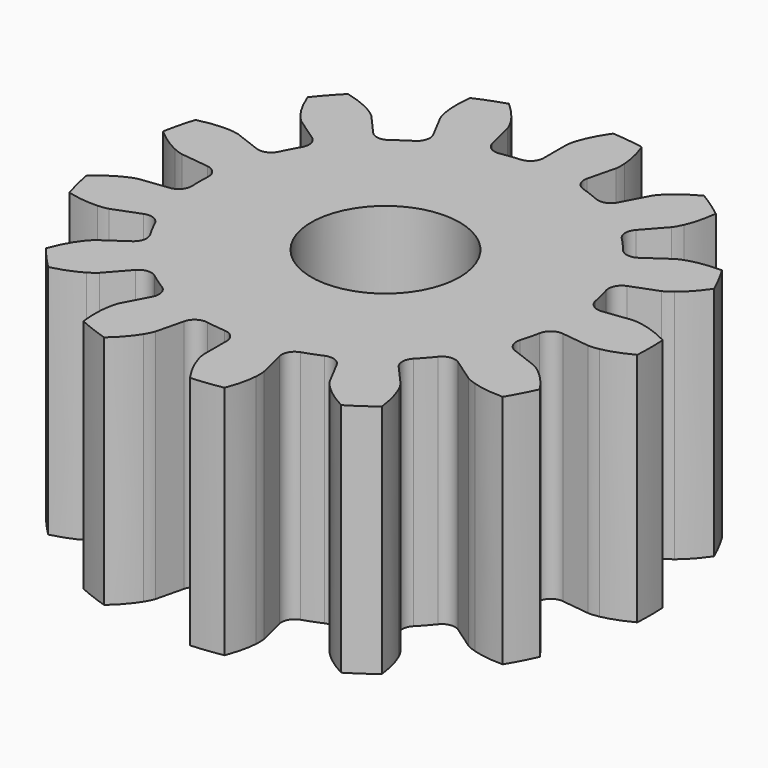
from build123d import *

# Parameters (mm, degrees)
SKETCH019_R  = 3.15
PAD011_DEPTH = 100
PAD_DEPTH    = 10


with BuildPart() as pad011:
    # Sketch019 → Pad011 (new body, symmetric)
    with BuildSketch(Plane(origin=(0, 0, 0), x_dir=(1, 0, 0), z_dir=(0, 0, -1))):
        Circle(SKETCH019_R)
    extrude(amount=PAD011_DEPTH, both=True)


with BuildPart() as obj1:
    # InvoluteGear → Pad (new body)
    with BuildSketch(Plane.XY):
        with BuildLine():
            Line((8.355513, -1.029758), (9.548181, -1.175965))
            add(Edge.make_bspline(
                [(9.548181, -1.175965), (9.5967, -1.178924), (9.742908, -1.18188), (9.988316, -1.135943)],
                knots=[0, 0, 0, 0, 1, 1, 1, 1], degree=3))
            add(Edge.make_bspline(
                [(9.988316, -1.135943), (10.281884, -1.080014), (10.705563, -0.954393), (11.230767, -0.676657)],
                knots=[0, 0, 0, 0, 1, 1, 1, 1], degree=3))
            ThreePointArc((11.230767, -0.676657), (11.251135, 0), (11.230767, 0.676657))
            add(Edge.make_bspline(
                [(11.230767, 0.676657), (10.705563, 0.954393), (10.281884, 1.080014), (9.988316, 1.135943)],
                knots=[0, 0, 0, 0, 1, 1, 1, 1], degree=3))
            add(Edge.make_bspline(
                [(9.988316, 1.135943), (9.742908, 1.18188), (9.5967, 1.178924), (9.548181, 1.175965)],
                knots=[0, 0, 0, 0, 1, 1, 1, 1], degree=3))
            Line((9.548181, 1.175965), (8.355513, 1.029758))
            ThreePointArc((8.355513, 1.029758), (7.956052, 1.132981), (7.734481, 1.48102))
            ThreePointArc((7.734481, 1.48102), (7.646167, 1.884611), (7.536808, 2.283014))
            ThreePointArc((7.536808, 2.283014), (7.571257, 2.694156), (7.876992, 2.971196))
            Line((7.876992, 2.971196), (9.000992, 3.395996))
            add(Edge.make_bspline(
                [(9.000992, 3.395996), (9.04533, 3.415923), (9.176163, 3.481252), (9.372113, 3.635975)],
                knots=[0, 0, 0, 0, 1, 1, 1, 1], degree=3))
            add(Edge.make_bspline(
                [(9.372113, 3.635975), (9.606064, 3.821924), (9.922834, 4.130051), (10.258808, 4.620047)],
                knots=[0, 0, 0, 0, 1, 1, 1, 1], degree=3))
            ThreePointArc((10.258808, 4.620047), (9.962385, 5.228663), (9.629892, 5.818348))
            add(Edge.make_bspline(
                [(9.629892, 5.818348), (9.035777, 5.820196), (8.602248, 5.734535), (8.316315, 5.647629)],
                knots=[0, 0, 0, 0, 1, 1, 1, 1], degree=3))
            add(Edge.make_bspline(
                [(8.316315, 5.647629), (8.077669, 5.574257), (7.949583, 5.503695), (7.907996, 5.478526)],
                knots=[0, 0, 0, 0, 1, 1, 1, 1], degree=3))
            Line((7.907996, 5.478526), (6.919887, 4.794806))
            ThreePointArc((6.919887, 4.794806), (6.518211, 4.700567), (6.160279, 4.905771))
            ThreePointArc((6.160279, 4.905771), (5.894522, 5.222091), (5.612542, 5.524038))
            ThreePointArc((5.612542, 5.524038), (5.451978, 5.904095), (5.593946, 6.291484))
            Line((5.593946, 6.291484), (6.391785, 7.189975))
            add(Edge.make_bspline(
                [(6.391785, 7.189975), (6.421783, 7.228224), (6.50727, 7.346872), (6.608872, 7.574934)],
                knots=[0, 0, 0, 0, 1, 1, 1, 1], degree=3))
            add(Edge.make_bspline(
                [(6.608872, 7.574934), (6.72961, 7.848306), (6.866903, 8.268349), (6.936681, 8.858355)],
                knots=[0, 0, 0, 0, 1, 1, 1, 1], degree=3))
            ThreePointArc((6.936681, 8.858355), (6.391373, 9.259502), (5.822925, 9.627125))
            add(Edge.make_bspline(
                [(5.822925, 9.627125), (5.296003, 9.352662), (4.951941, 9.075343), (4.739148, 8.865511)],
                knots=[0, 0, 0, 0, 1, 1, 1, 1], degree=3))
            add(Edge.make_bspline(
                [(4.739148, 8.865511), (4.561934, 8.68964), (4.481311, 8.567635), (4.456185, 8.526023)],
                knots=[0, 0, 0, 0, 1, 1, 1, 1], degree=3))
            Line((4.456185, 8.526023), (3.898999, 7.461421))
            ThreePointArc((3.898999, 7.461421), (3.587127, 7.191309), (3.17483, 7.206669))
            ThreePointArc((3.17483, 7.206669), (2.792513, 7.363253), (2.402511, 7.499571))
            ThreePointArc((2.402511, 7.499571), (2.083717, 7.761477), (2.029395, 8.170468))
            Line((2.029395, 8.170468), (2.318297, 9.336817))
            add(Edge.make_bspline(
                [(2.318297, 9.336817), (2.327083, 9.384626), (2.34764, 9.529411), (2.331619, 9.778567)],
                knots=[0, 0, 0, 0, 1, 1, 1, 1], degree=3))
            add(Edge.make_bspline(
                [(2.331619, 9.778567), (2.311484, 10.076736), (2.237847, 10.512468), (2.025443, 11.06732)],
                knots=[0, 0, 0, 0, 1, 1, 1, 1], degree=3))
            ThreePointArc((2.025443, 11.06732), (1.356174, 11.169101), (0.681996, 11.230444))
            add(Edge.make_bspline(
                [(0.681996, 11.230444), (0.342979, 10.742547), (0.167204, 10.337099), (0.076298, 10.052412)],
                knots=[0, 0, 0, 0, 1, 1, 1, 1], degree=3))
            add(Edge.make_bspline(
                [(0.076298, 10.052412), (0.001115, 9.814331), (-0.013574, 9.668833), (-0.016485, 9.620311)],
                knots=[0, 0, 0, 0, 1, 1, 1, 1], degree=3))
            Line((-0.016485, 9.620311), (-0.015104, 8.418716))
            ThreePointArc((-0.015104, 8.418716), (-0.165725, 8.034609), (-0.537933, 7.856606))
            ThreePointArc((-0.537933, 7.856606), (-0.949226, 7.817582), (-1.357907, 7.757043))
            ThreePointArc((-1.357907, 7.757043), (-1.761899, 7.840798), (-2.000066, 8.177698))
            Line((-2.000066, 8.177698), (-2.286285, 9.344707))
            add(Edge.make_bspline(
                [(-2.286285, 9.344707), (-2.300723, 9.391123), (-2.349806, 9.528877), (-2.479781, 9.742048)],
                knots=[0, 0, 0, 0, 1, 1, 1, 1], degree=3))
            add(Edge.make_bspline(
                [(-2.479781, 9.742048), (-2.636175, 9.996707), (-2.903872, 10.348308), (-3.349799, 10.740895)],
                knots=[0, 0, 0, 0, 1, 1, 1, 1], degree=3))
            ThreePointArc((-3.349799, 10.740895), (-3.989707, 10.519994), (-4.61517, 10.261003))
            add(Edge.make_bspline(
                [(-4.61517, 10.261003), (-4.688617, 9.671443), (-4.655837, 9.23075), (-4.60403, 8.936427)],
                knots=[0, 0, 0, 0, 1, 1, 1, 1], degree=3))
            add(Edge.make_bspline(
                [(-4.60403, 8.936427), (-4.559959, 8.690677), (-4.50535, 8.555018), (-4.485378, 8.510701)],
                knots=[0, 0, 0, 0, 1, 1, 1, 1], degree=3))
            Line((-4.485378, 8.510701), (-3.925746, 7.447383))
            ThreePointArc((-3.925746, 7.447383), (-3.880611, 7.037277), (-4.127463, 6.706689))
            ThreePointArc((-4.127463, 6.706689), (-4.47351, 6.480998), (-4.807244, 6.23747))
            ThreePointArc((-4.807244, 6.23747), (-5.203885, 6.123887), (-5.571336, 6.311515))
            Line((-5.571336, 6.311515), (-6.367107, 7.211837))
            add(Edge.make_bspline(
                [(-6.367107, 7.211837), (-6.401462, 7.246227), (-6.50894, 7.345392), (-6.723092, 7.473744)],
                knots=[0, 0, 0, 0, 1, 1, 1, 1], degree=3))
            add(Edge.make_bspline(
                [(-6.723092, 7.473744), (-6.979918, 7.626553), (-7.38035, 7.813474), (-7.957643, 7.953861)],
                knots=[0, 0, 0, 0, 1, 1, 1, 1], degree=3))
            ThreePointArc((-7.957643, 7.953861), (-8.421595, 7.460882), (-8.855056, 6.940891))
            add(Edge.make_bspline(
                [(-8.855056, 6.940891), (-8.646108, 6.384728), (-8.412283, 6.009748), (-8.229631, 5.773213)],
                knots=[0, 0, 0, 0, 1, 1, 1, 1], degree=3))
            add(Edge.make_bspline(
                [(-8.229631, 5.773213), (-8.076402, 5.576093), (-7.965005, 5.481352), (-7.926725, 5.451393)],
                knots=[0, 0, 0, 0, 1, 1, 1, 1], degree=3))
            Line((-7.926725, 5.451393), (-6.937047, 4.769945))
            ThreePointArc((-6.937047, 4.769945), (-6.706496, 4.427789), (-6.771441, 4.02035))
            ThreePointArc((-6.771441, 4.02035), (-6.972966, 3.659695), (-7.1553, 3.288967))
            ThreePointArc((-7.1553, 3.288967), (-7.453723, 3.004067), (-7.86628, 2.99944))
            Line((-7.86628, 2.99944), (-8.989301, 3.426823))
            add(Edge.make_bspline(
                [(-8.989301, 3.426823), (-9.035703, 3.441308), (-9.176954, 3.479167), (-9.426224, 3.493294)],
                knots=[0, 0, 0, 0, 1, 1, 1, 1], degree=3))
            add(Edge.make_bspline(
                [(-9.426224, 3.493294), (-9.724647, 3.509247), (-10.166078, 3.488669), (-10.742486, 3.344693)],
                knots=[0, 0, 0, 0, 1, 1, 1, 1], degree=3))
            ThreePointArc((-10.742486, 3.344693), (-10.924197, 2.692573), (-11.066356, 2.030704))
            add(Edge.make_bspline(
                [(-11.066356, 2.030704), (-10.62288, 1.635349), (-10.241575, 1.411985), (-9.969922, 1.287426)],
                knots=[0, 0, 0, 0, 1, 1, 1, 1], degree=3))
            add(Edge.make_bspline(
                [(-9.969922, 1.287426), (-9.742639, 1.184094), (-9.599973, 1.151974), (-9.552155, 1.143236)],
                knots=[0, 0, 0, 0, 1, 1, 1, 1], degree=3))
            Line((-9.552155, 1.143236), (-8.359154, 0.99977))
            ThreePointArc((-8.359154, 0.99977), (-7.996004, 0.803949), (-7.864163, 0.412998))
            ThreePointArc((-7.864163, 0.412998), (-7.875, 0), (-7.864163, -0.412998))
            ThreePointArc((-7.864163, -0.412998), (-7.996004, -0.803949), (-8.359154, -0.99977))
            Line((-8.359154, -0.99977), (-9.552155, -1.143236))
            add(Edge.make_bspline(
                [(-9.552155, -1.143236), (-9.599973, -1.151974), (-9.742639, -1.184094), (-9.969922, -1.287426)],
                knots=[0, 0, 0, 0, 1, 1, 1, 1], degree=3))
            add(Edge.make_bspline(
                [(-9.969922, -1.287426), (-10.241575, -1.411985), (-10.62288, -1.635349), (-11.066356, -2.030704)],
                knots=[0, 0, 0, 0, 1, 1, 1, 1], degree=3))
            ThreePointArc((-11.066356, -2.030704), (-10.924197, -2.692573), (-10.742486, -3.344693))
            add(Edge.make_bspline(
                [(-10.742486, -3.344693), (-10.166078, -3.488669), (-9.724647, -3.509247), (-9.426224, -3.493294)],
                knots=[0, 0, 0, 0, 1, 1, 1, 1], degree=3))
            add(Edge.make_bspline(
                [(-9.426224, -3.493294), (-9.176954, -3.479167), (-9.035703, -3.441308), (-8.989301, -3.426823)],
                knots=[0, 0, 0, 0, 1, 1, 1, 1], degree=3))
            Line((-8.989301, -3.426823), (-7.86628, -2.99944))
            ThreePointArc((-7.86628, -2.99944), (-7.453723, -3.004067), (-7.1553, -3.288967))
            ThreePointArc((-7.1553, -3.288967), (-6.972966, -3.659695), (-6.771441, -4.02035))
            ThreePointArc((-6.771441, -4.02035), (-6.706496, -4.427789), (-6.937047, -4.769945))
            Line((-6.937047, -4.769945), (-7.926725, -5.451393))
            add(Edge.make_bspline(
                [(-7.926725, -5.451393), (-7.965005, -5.481352), (-8.076402, -5.576093), (-8.229631, -5.773213)],
                knots=[0, 0, 0, 0, 1, 1, 1, 1], degree=3))
            add(Edge.make_bspline(
                [(-8.229631, -5.773213), (-8.412283, -6.009748), (-8.646108, -6.384728), (-8.855056, -6.940891)],
                knots=[0, 0, 0, 0, 1, 1, 1, 1], degree=3))
            ThreePointArc((-8.855056, -6.940891), (-8.421595, -7.460882), (-7.957643, -7.953861))
            add(Edge.make_bspline(
                [(-7.957643, -7.953861), (-7.38035, -7.813474), (-6.979918, -7.626553), (-6.723092, -7.473744)],
                knots=[0, 0, 0, 0, 1, 1, 1, 1], degree=3))
            add(Edge.make_bspline(
                [(-6.723092, -7.473744), (-6.50894, -7.345392), (-6.401462, -7.246227), (-6.367107, -7.211837)],
                knots=[0, 0, 0, 0, 1, 1, 1, 1], degree=3))
            Line((-6.367107, -7.211837), (-5.571336, -6.311515))
            ThreePointArc((-5.571336, -6.311515), (-5.203885, -6.123887), (-4.807244, -6.23747))
            ThreePointArc((-4.807244, -6.23747), (-4.47351, -6.480998), (-4.127463, -6.706689))
            ThreePointArc((-4.127463, -6.706689), (-3.880611, -7.037277), (-3.925746, -7.447383))
            Line((-3.925746, -7.447383), (-4.485378, -8.510701))
            add(Edge.make_bspline(
                [(-4.485378, -8.510701), (-4.50535, -8.555018), (-4.559959, -8.690677), (-4.60403, -8.936427)],
                knots=[0, 0, 0, 0, 1, 1, 1, 1], degree=3))
            add(Edge.make_bspline(
                [(-4.60403, -8.936427), (-4.655837, -9.23075), (-4.688617, -9.671443), (-4.61517, -10.261003)],
                knots=[0, 0, 0, 0, 1, 1, 1, 1], degree=3))
            ThreePointArc((-4.61517, -10.261003), (-3.989707, -10.519994), (-3.349799, -10.740895))
            add(Edge.make_bspline(
                [(-3.349799, -10.740895), (-2.903872, -10.348308), (-2.636175, -9.996707), (-2.479781, -9.742048)],
                knots=[0, 0, 0, 0, 1, 1, 1, 1], degree=3))
            add(Edge.make_bspline(
                [(-2.479781, -9.742048), (-2.349806, -9.528877), (-2.300723, -9.391123), (-2.286285, -9.344707)],
                knots=[0, 0, 0, 0, 1, 1, 1, 1], degree=3))
            Line((-2.286285, -9.344707), (-2.000066, -8.177698))
            ThreePointArc((-2.000066, -8.177698), (-1.761899, -7.840798), (-1.357907, -7.757043))
            ThreePointArc((-1.357907, -7.757043), (-0.949226, -7.817582), (-0.537933, -7.856606))
            ThreePointArc((-0.537933, -7.856606), (-0.165725, -8.034609), (-0.015104, -8.418716))
            Line((-0.015104, -8.418716), (-0.016485, -9.620311))
            add(Edge.make_bspline(
                [(-0.016485, -9.620311), (-0.013574, -9.668833), (0.001115, -9.814331), (0.076298, -10.052412)],
                knots=[0, 0, 0, 0, 1, 1, 1, 1], degree=3))
            add(Edge.make_bspline(
                [(0.076298, -10.052412), (0.167204, -10.337099), (0.342979, -10.742547), (0.681996, -11.230444)],
                knots=[0, 0, 0, 0, 1, 1, 1, 1], degree=3))
            ThreePointArc((0.681996, -11.230444), (1.356174, -11.169101), (2.025443, -11.06732))
            add(Edge.make_bspline(
                [(2.025443, -11.06732), (2.237847, -10.512468), (2.311484, -10.076736), (2.331619, -9.778567)],
                knots=[0, 0, 0, 0, 1, 1, 1, 1], degree=3))
            add(Edge.make_bspline(
                [(2.331619, -9.778567), (2.34764, -9.529411), (2.327083, -9.384626), (2.318297, -9.336817)],
                knots=[0, 0, 0, 0, 1, 1, 1, 1], degree=3))
            Line((2.318297, -9.336817), (2.029395, -8.170468))
            ThreePointArc((2.029395, -8.170468), (2.083717, -7.761477), (2.402511, -7.499571))
            ThreePointArc((2.402511, -7.499571), (2.792513, -7.363253), (3.17483, -7.206669))
            ThreePointArc((3.17483, -7.206669), (3.587127, -7.191309), (3.898999, -7.461421))
            Line((3.898999, -7.461421), (4.456185, -8.526023))
            add(Edge.make_bspline(
                [(4.456185, -8.526023), (4.481311, -8.567635), (4.561934, -8.68964), (4.739148, -8.865511)],
                knots=[0, 0, 0, 0, 1, 1, 1, 1], degree=3))
            add(Edge.make_bspline(
                [(4.739148, -8.865511), (4.951941, -9.075343), (5.296003, -9.352662), (5.822925, -9.627125)],
                knots=[0, 0, 0, 0, 1, 1, 1, 1], degree=3))
            ThreePointArc((5.822925, -9.627125), (6.391373, -9.259502), (6.936681, -8.858355))
            add(Edge.make_bspline(
                [(6.936681, -8.858355), (6.866903, -8.268349), (6.72961, -7.848306), (6.608872, -7.574934)],
                knots=[0, 0, 0, 0, 1, 1, 1, 1], degree=3))
            add(Edge.make_bspline(
                [(6.608872, -7.574934), (6.50727, -7.346872), (6.421783, -7.228224), (6.391785, -7.189975)],
                knots=[0, 0, 0, 0, 1, 1, 1, 1], degree=3))
            Line((6.391785, -7.189975), (5.593946, -6.291484))
            ThreePointArc((5.593946, -6.291484), (5.451978, -5.904095), (5.612542, -5.524038))
            ThreePointArc((5.612542, -5.524038), (5.894522, -5.222091), (6.160279, -4.905771))
            ThreePointArc((6.160279, -4.905771), (6.518211, -4.700567), (6.919887, -4.794806))
            Line((6.919887, -4.794806), (7.907996, -5.478526))
            add(Edge.make_bspline(
                [(7.907996, -5.478526), (7.949583, -5.503695), (8.077669, -5.574257), (8.316315, -5.647629)],
                knots=[0, 0, 0, 0, 1, 1, 1, 1], degree=3))
            add(Edge.make_bspline(
                [(8.316315, -5.647629), (8.602248, -5.734535), (9.035777, -5.820196), (9.629892, -5.818348)],
                knots=[0, 0, 0, 0, 1, 1, 1, 1], degree=3))
            ThreePointArc((9.629892, -5.818348), (9.962385, -5.228663), (10.258808, -4.620047))
            add(Edge.make_bspline(
                [(10.258808, -4.620047), (9.922834, -4.130051), (9.606064, -3.821924), (9.372113, -3.635975)],
                knots=[0, 0, 0, 0, 1, 1, 1, 1], degree=3))
            add(Edge.make_bspline(
                [(9.372113, -3.635975), (9.176163, -3.481252), (9.04533, -3.415923), (9.000992, -3.395996)],
                knots=[0, 0, 0, 0, 1, 1, 1, 1], degree=3))
            Line((9.000992, -3.395996), (7.876992, -2.971196))
            ThreePointArc((7.876992, -2.971196), (7.571257, -2.694156), (7.536808, -2.283014))
            ThreePointArc((7.536808, -2.283014), (7.646167, -1.884611), (7.734481, -1.48102))
            ThreePointArc((7.734481, -1.48102), (7.956052, -1.132981), (8.355513, -1.029758))
        make_face()
    extrude(amount=PAD_DEPTH)

    # Cut008: cut Pad011
    add(pad011.part, mode=Mode.SUBTRACT)


solid = obj1.part
